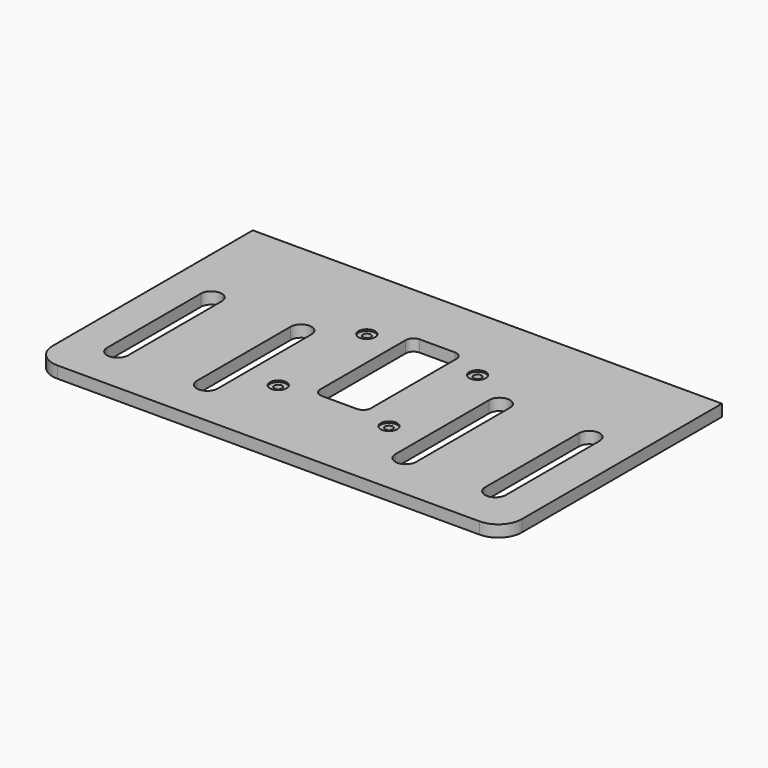
from build123d import *

# Parameters (mm, degrees)
PAD_DEPTH       = 18
SKETCH001_R     = 6
POCKET_DEPTH    = 18
SKETCH006_R     = 12.75
POCKET003_DEPTH = 2.4


with BuildPart() as part:
    # Sketch → Pad (new body)
    with BuildSketch(Plane.XY):
        with BuildLine():
            Line((-360, 420), (360, 420))
            Line((360, 420), (360, 36))
            ThreePointArc((324, 0), (349.455844, 10.544156), (360, 36))
            Line((324, 0), (-324, 0))
            ThreePointArc((-360, 36), (-349.455844, 10.544156), (-324, 0))
            Line((-360, 36), (-360, 420))
        make_face()
    extrude(amount=PAD_DEPTH)

    # Sketch001 (on Face8 of Pad) → Pocket (cut)
    with BuildSketch(Plane.XY.offset(18)):
        with Locations((-85, 125)):
            Circle(SKETCH001_R)
        with Locations((-85, 295)):
            Circle(SKETCH001_R)
        with Locations((85, 295)):
            Circle(SKETCH001_R)
        with Locations((85, 125)):
            Circle(SKETCH001_R)
        with BuildLine():
            ThreePointArc((-274, 253), (-290, 269), (-306, 253))
            Line((-306, 253), (-306, 73))
            ThreePointArc((-306, 73), (-290, 57), (-274, 73))
            Line((-274, 73), (-274, 253))
        make_face()
        with BuildLine():
            ThreePointArc((-136.333333, 253), (-152.333333, 269), (-168.333333, 253))
            Line((-168.333333, 253), (-168.333333, 73))
            ThreePointArc((-168.333333, 73), (-152.333333, 57), (-136.333333, 73))
            Line((-136.333333, 73), (-136.333333, 253))
        make_face()
        with BuildLine():
            ThreePointArc((306, 253), (290, 269), (274, 253))
            Line((274, 73), (274, 253))
            ThreePointArc((274, 73), (290, 57), (306, 73))
            Line((306, 253), (306, 73))
        make_face()
        with BuildLine():
            ThreePointArc((168.333333, 253), (152.333333, 269), (136.333333, 253))
            Line((136.333333, 73), (136.333333, 253))
            ThreePointArc((136.333333, 73), (152.333333, 57), (168.333333, 73))
            Line((168.333333, 253), (168.333333, 73))
        make_face()
        with BuildLine():
            Line((-27, 324), (27, 324))
            ThreePointArc((39, 312), (35.485281, 320.485281), (27, 324))
            Line((39, 312), (39, 148))
            ThreePointArc((27, 136), (35.485281, 139.514719), (39, 148))
            Line((27, 136), (-27, 136))
            ThreePointArc((-39, 148), (-35.485281, 139.514719), (-27, 136))
            Line((-39, 148), (-39, 312))
            ThreePointArc((-27, 324), (-35.485281, 320.485281), (-39, 312))
        make_face()
    extrude(amount=-POCKET_DEPTH, mode=Mode.SUBTRACT)

    # Sketch006 (on Face5 of Pocket) → Pocket003 (cut)
    with BuildSketch(Plane.XY.offset(18)):
        with Locations((-85, 295)):
            Circle(SKETCH006_R)
        with Locations((85, 295)):
            Circle(SKETCH006_R)
        with Locations((-85, 125)):
            Circle(SKETCH006_R)
        with Locations((85, 125)):
            Circle(SKETCH006_R)
    extrude(amount=-POCKET003_DEPTH, mode=Mode.SUBTRACT)


solid = part.part
